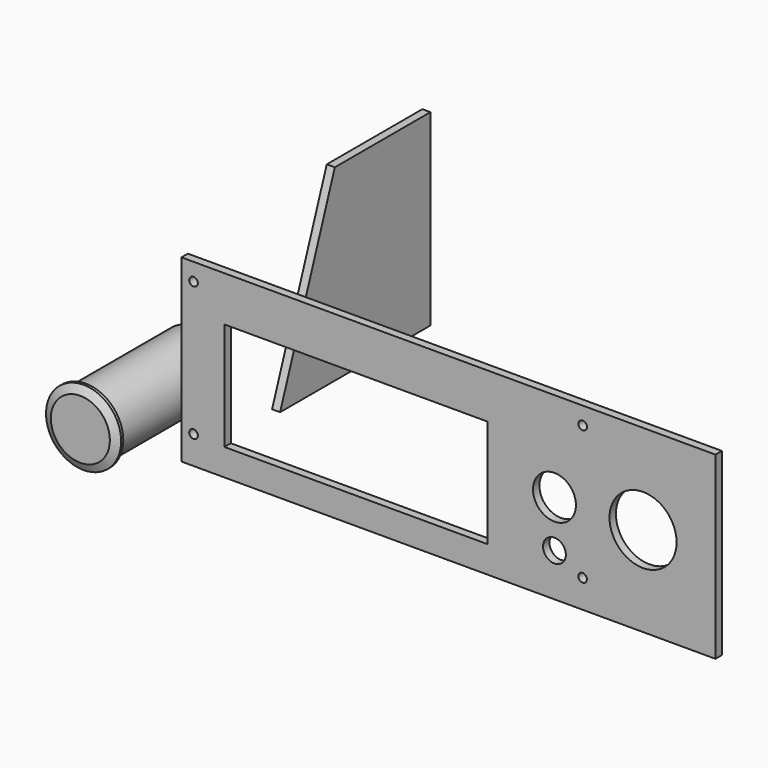
from build123d import *

# Parameters (mm, degrees)
F0_W      = 199
F0_H      = 67
F1_DEPTH  = 3
F2_R      = 1.6
F3_DEPTH  = 3.001
F4_W      = 98
F4_H      = 40.2
F5_DEPTH  = 3.001
F6_R      = 4.25
F6_R_2    = 8
F7_DEPTH  = 3.001
F8_R      = 12.5
F9_DEPTH  = 3.001
F10_R     = 12.4
F11_DEPTH = 50
F12_R     = 14
F13_DEPTH = 2.5
F14_SIZE2 = 1.5
F14_SIZE  = 3
F16_DEPTH = 3


with BuildPart() as f1:
    # F0 (on Front) → F1 (new body)
    with BuildSketch(Plane.XZ):
        with Locations((99.5, 33.5)):
            Rectangle(F0_W, F0_H)
    extrude(amount=-F1_DEPTH)

    # F2 (on face) → F3 (cut, through all)
    with BuildSketch(Plane.XZ):
        with Locations((4.5, 10.5)):
            Circle(F2_R)
        with Locations((4.5, 60.5)):
            Circle(F2_R)
        with Locations((149.5, 10.5)):
            Circle(F2_R)
        with Locations((149.5, 60.5)):
            Circle(F2_R)
    extrude(amount=-F3_DEPTH, mode=Mode.SUBTRACT)

    # F4 (on face) → F5 (cut, through all)
    with BuildSketch(Plane.XZ):
        with Locations((65, 30.1)):
            Rectangle(F4_W, F4_H)
    extrude(amount=-F5_DEPTH, mode=Mode.SUBTRACT)

    # F6 (on face) → F7 (cut, through all)
    with BuildSketch(Plane.XZ):
        with Locations((139, 16)):
            Circle(F6_R)
        with Locations((139, 33.5)):
            Circle(F6_R_2)
    extrude(amount=-F7_DEPTH, mode=Mode.SUBTRACT)

    # F8 (on face) → F9 (cut, through all)
    with BuildSketch(Plane.XZ):
        with Locations((172, 33.5)):
            Circle(F8_R)
    extrude(amount=-F9_DEPTH, mode=Mode.SUBTRACT)


with BuildPart() as f11:
    # F10 (on Front) → F11 (new body)
    with BuildSketch(Plane.XZ):
        with Locations((-35.6742012304, 0)):
            Circle(F10_R)
    extrude(amount=-F11_DEPTH)

    # F12 (on face) → F13 (join)
    with BuildSketch(Plane.XZ):
        with Locations((-35.6742012304, 0)):
            Circle(F12_R)
    extrude(amount=F13_DEPTH)

    # F14
    f14_edges = [f11.edges().sort_by_distance(p)[0] for p in [
        (-49.674201, -2.5, 0),
    ]]
    f14_side = f11.faces().sort_by_distance((-35.674201, -2.5, 0))[0]
    chamfer(f14_edges, length=F14_SIZE, length2=F14_SIZE2, reference=f14_side)


with BuildPart() as f16:
    # F15 (on Right) → F16 (new body)
    with BuildSketch(Plane.YZ):
        Polygon((67.6834460315, 70), (42.2055296329, 0), (112.2055296329, 0), (112.2055296329, 70), align=None)
    extrude(amount=F16_DEPTH)


solid = Compound([f1.part, f11.part, f16.part])
